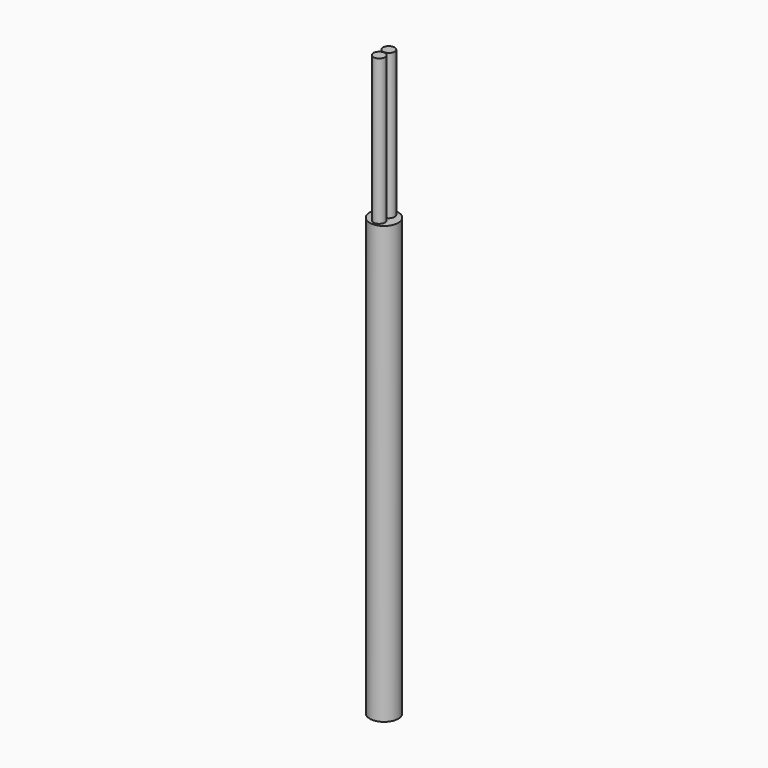
from build123d import *

# Parameters (mm, degrees)
F0_R     = 4.9784
F1_DEPTH = 152.4
F2_R     = 2.032
F3_DEPTH = 50.8


with BuildPart() as f1:
    # F0 (on Top) → F1 (new body)
    with BuildSketch(Plane.XY):
        Circle(F0_R)
    extrude(amount=F1_DEPTH)

    # F2 (on face) → F3 (join)
    with BuildSketch(Plane.XY.offset(152.4)):
        with Locations((0, 2.0955)):
            Circle(F2_R)
        with Locations((0, -2.0955)):
            Circle(F2_R)
    extrude(amount=F3_DEPTH)


solid = f1.part
